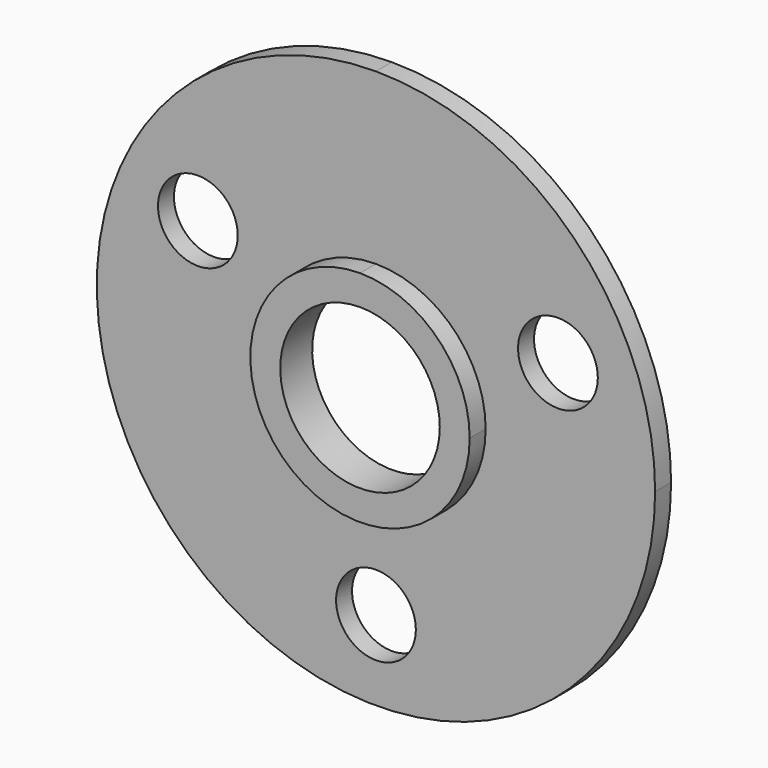
from build123d import *

# Parameters (mm, degrees)
F0_R     = 12.7
F1_DEPTH = 6.35
F2_DEPTH = 12.7


with BuildPart() as f1:
    # F0 (on Front) → F1 (new body)
    with BuildSketch(Plane.XZ):
        with BuildLine():
            ThreePointArc((0, 88.9), (-62.861793, -62.861793), (88.9, 0))
            ThreePointArc((88.9, 0), (62.861793, 62.861793), (0, 88.9))
        make_face()
        with Locations((0, -63.5)):
            Circle(F0_R, mode=Mode.SUBTRACT)
        with Locations((-56.70948, 28.5707)):
            Circle(F0_R, mode=Mode.SUBTRACT)
        with BuildLine():
            ThreePointArc((34.925, 0), (-24.695704, -24.695704), (0, 34.925))
            ThreePointArc((0, 34.925), (24.695704, 24.695704), (34.925, 0))
        make_face(mode=Mode.SUBTRACT)
        with Locations((57.949801, 25.962869)):
            Circle(F0_R, mode=Mode.SUBTRACT)
    extrude(amount=F1_DEPTH)

    # F0 (on Front) → F2 (join)
    with BuildSketch(Plane.XZ):
        with BuildLine():
            ThreePointArc((34.925, 0), (24.695704, 24.695704), (0, 34.925))
            ThreePointArc((0, 34.925), (-24.695704, -24.695704), (34.925, 0))
        make_face()
        with BuildLine():
            ThreePointArc((25.4, 0), (-17.960512, -17.960512), (0, 25.4))
            ThreePointArc((0, 25.4), (17.960512, 17.960512), (25.4, 0))
        make_face(mode=Mode.SUBTRACT)
    extrude(amount=F2_DEPTH)


solid = f1.part
